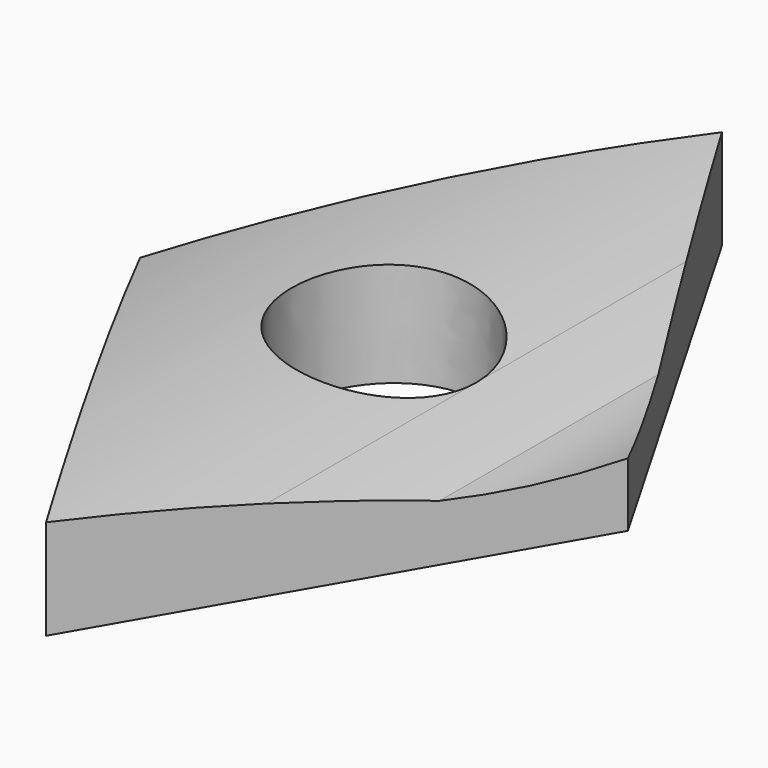
from build123d import *

# Parameters (mm, degrees)
F1_DEPTH = 266.7
F2_DEPTH = 266.7
F4_DEPTH = 33.02


with BuildPart() as f1:
    # F0 (on Front) → F1 (new body)
    with BuildSketch(Plane.XZ):
        with BuildLine():
            ThreePointArc((48.2600185156, 20.32), (35.7132010039, 17.5181751166), (22.8600185156, 17.78))
            ThreePointArc((22.8600185156, 17.78), (11.5511007159, 22.0915645826), (1.85156e-05, 25.7045565494))
            Line((1.85156e-05, 25.7045565494), (1.85156e-05, 0))
            Line((1.85156e-05, 0), (48.2600185156, 0))
            Line((48.2600185156, 0), (48.2600185156, 20.32))
        make_face()
        with BuildLine():
            Line((1.85156e-05, 0), (1.85156e-05, 25.7045565494))
            ThreePointArc((1.85156e-05, 25.7045565494), (-65.4372766005, 32.6503219994), (-129.5399814844, 17.78))
            Line((-129.5399814844, 17.78), (-129.5399814844, 0))
            Line((-129.5399814844, 0), (1.85156e-05, 0))
        make_face()
        with BuildLine():
            ThreePointArc((48.2600185156, 20.32), (35.7132010039, 17.5181751166), (22.8600185156, 17.78))
            ThreePointArc((22.8600185156, 17.78), (11.5511007159, 22.0915645826), (1.85156e-05, 25.7045565494))
            Line((1.85156e-05, 25.7045565494), (1.85156e-05, 0))
            Line((1.85156e-05, 0), (48.2600185156, 0))
            Line((48.2600185156, 0), (48.2600185156, 20.32))
        make_face()
    extrude(amount=F1_DEPTH)

    # F0 (on Front) → F2 (join)
    with BuildSketch(Plane.XZ):
        with BuildLine():
            ThreePointArc((48.2600185156, 20.32), (35.7132010039, 17.5181751166), (22.8600185156, 17.78))
            ThreePointArc((22.8600185156, 17.78), (11.5511007159, 22.0915645826), (1.85156e-05, 25.7045565494))
            Line((1.85156e-05, 25.7045565494), (1.85156e-05, 0))
            Line((1.85156e-05, 0), (48.2600185156, 0))
            Line((48.2600185156, 0), (48.2600185156, 20.32))
        make_face()
        with BuildLine():
            Line((1.85156e-05, 0), (1.85156e-05, 25.7045565494))
            ThreePointArc((1.85156e-05, 25.7045565494), (-65.4372766005, 32.6503219994), (-129.5399814844, 17.78))
            Line((-129.5399814844, 17.78), (-129.5399814844, 0))
            Line((-129.5399814844, 0), (1.85156e-05, 0))
        make_face()
    extrude(amount=F2_DEPTH)


with BuildPart() as f4:
    # F3 (on Top) → F4 (new body)
    with BuildSketch(Plane.XY):
        Polygon((47.7774130199, -133.3460956812), (-29.2099869801, -7.3386e-06), (-106.1973869801, -133.3460956812), (-29.2099869801, -266.7000073386), align=None)
        with BuildLine():
            add(Edge.make_bspline(
                [(-29.2099869801, -165.1000073386), (21.383217109, -165.1000073386), (-3.9133849355, -117.4750073386), (-29.2099869801, -69.8500073386), (-54.5065890246, -117.4750073386), (-79.8031910691, -165.1000073386), (-29.2099869801, -165.1000073386)],
                knots=[0, 0, 0, 2.0943951024, 2.0943951024, 4.1887902048, 4.1887902048, 6.2831853072, 6.2831853072, 6.2831853072], degree=2, weights=[1, 0.5, 1, 0.5, 1, 0.5, 1]))
        make_face(mode=Mode.SUBTRACT)
    extrude(amount=F4_DEPTH)

    # F5: intersect F1
    add(f1.part, mode=Mode.INTERSECT)


solid = f4.part
